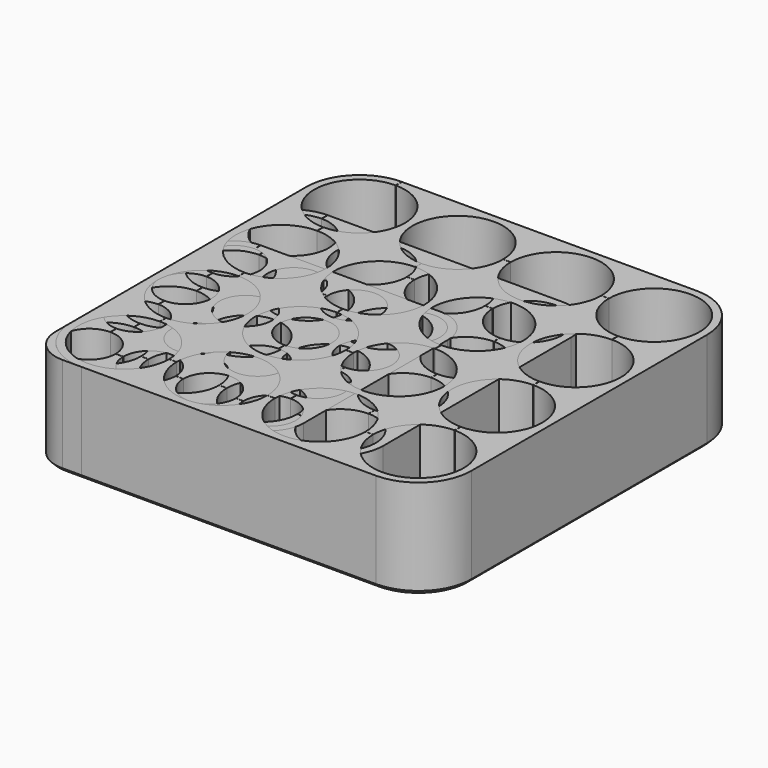
from build123d import *

# Parameters (mm, degrees)
PAD_DEPTH         = 20
PAD_DEPTH_BACK    = 0.8
CHAMFER_SIZE      = 0.8
SKETCH002_R       = 7.4
POCKET_DEPTH      = 20.001
SKETCH003_W       = 0.04
SKETCH003_H       = 50.8000270271
SKETCH003_W_2     = 34.4000540543
SKETCH003_H_2     = 0.04
SKETCH003_H_3     = 34.400054054
SKETCH003_W_3     = 18.0000540542
SKETCH003_H_4     = 18.000054054
SKETCH003_W_4     = 1.6000540542
SKETCH003_H_5     = 1.6000540541
POCKET001_DEPTH   = 20.001
PAD001_DEPTH      = 20
PAD001_DEPTH_BACK = 0.8
CHAMFER001_SIZE   = 0.8
SKETCH006_R       = 5.5
POCKET002_DEPTH   = 20.001
SKETCH007_W       = 0.04
SKETCH007_H       = 39.4000363638
SKETCH007_W_2     = 37.8000000001
SKETCH007_H_2     = 0.04
SKETCH007_H_3     = 37.7999999999
SKETCH007_W_3     = 25.2000000001
SKETCH007_H_4     = 25.1999999999
SKETCH007_W_4     = 12.6000000001
SKETCH007_H_5     = 12.6
POCKET003_DEPTH   = 20.001
PAD002_DEPTH      = 20
PAD002_DEPTH_BACK = 0.8
CHAMFER002_SIZE   = 0.8
SKETCH010_R       = 9.5
POCKET004_DEPTH   = 20.001
SKETCH011_W       = 0.04
SKETCH011_H       = 63.4000210527
SKETCH011_W_2     = 42.8000421054
SKETCH011_H_2     = 0.04
SKETCH011_H_3     = 42.8000421052
SKETCH011_W_3     = 22.2000421054
SKETCH011_H_4     = 22.2000421052
SKETCH011_W_4     = 1.6000421054
SKETCH011_H_5     = 1.6000421053
POCKET005_DEPTH   = 20.001


with BuildPart() as f_4x4_aa:
    # Sketch001 → Pad (new body, two sides)
    with BuildSketch(Plane.XY) as pad_sk:
        with BuildLine():
            Line((0, 58.2), (0, 9))
            ThreePointArc((0, 9), (2.6360389693, 2.6360389693), (9, 0))
            Line((9, 0), (58.2, 0))
            ThreePointArc((58.2, 0), (64.5639610307, 2.6360389693), (67.2, 9))
            Line((67.2, 9), (67.2, 58.2))
            ThreePointArc((67.2, 58.2), (64.5639610307, 64.5639610307), (58.2, 67.2))
            Line((58.2, 67.2), (9, 67.2))
            ThreePointArc((9, 67.2), (2.6360389693, 64.5639610307), (0, 58.2))
        make_face()
    extrude(amount=PAD_DEPTH)
    extrude(pad_sk.sketch, amount=-PAD_DEPTH_BACK)

    # Chamfer
    chamfer_edges = [f_4x4_aa.edges().sort_by_distance(p)[0] for p in [
        (2.636039, 2.636039, -0.8),
    ]]
    chamfer(chamfer_edges, length=CHAMFER_SIZE)

    # Sketch002 → Pocket (cut, through all)
    with BuildSketch(Plane.XY):
        with Locations((9, 9)):
            Circle(SKETCH002_R)
        with Locations((25.4, 9)):
            Circle(SKETCH002_R)
        with Locations((41.8000000001, 9)):
            Circle(SKETCH002_R)
        with Locations((58.2000000001, 9)):
            Circle(SKETCH002_R)
        with Locations((9, 25.4)):
            Circle(SKETCH002_R)
        with Locations((25.4, 25.4)):
            Circle(SKETCH002_R)
        with Locations((41.8000000001, 25.4)):
            Circle(SKETCH002_R)
        with Locations((58.2000000001, 25.4)):
            Circle(SKETCH002_R)
        with Locations((9, 41.7999999999)):
            Circle(SKETCH002_R)
        with Locations((25.4, 41.7999999999)):
            Circle(SKETCH002_R)
        with Locations((41.8000000001, 41.7999999999)):
            Circle(SKETCH002_R)
        with Locations((58.2000000001, 41.7999999999)):
            Circle(SKETCH002_R)
        with Locations((58.2000000001, 58.1999999999)):
            Circle(SKETCH002_R)
        with Locations((41.8000000001, 58.1999999999)):
            Circle(SKETCH002_R)
        with Locations((25.4, 58.1999999999)):
            Circle(SKETCH002_R)
        with Locations((9, 58.1999999999)):
            Circle(SKETCH002_R)
    extrude(amount=POCKET_DEPTH, mode=Mode.SUBTRACT)

    # Sketch003 → Pocket001 (cut, through all)
    with BuildSketch(Plane.XY):
        with Locations((9, 41.7999864865)):
            Rectangle(SKETCH003_W, SKETCH003_H)
        with Locations((33.6000000001, 9)):
            Rectangle(SKETCH003_W_2, SKETCH003_H_2)
        with Locations((58.2000000001, 33.5999999999)):
            Rectangle(SKETCH003_W, SKETCH003_H_3)
        with Locations((41.8000000001, 58.1999999999)):
            Rectangle(SKETCH003_W_3, SKETCH003_H_2)
        with Locations((25.4, 41.7999999999)):
            Rectangle(SKETCH003_W, SKETCH003_H_4)
        with Locations((33.6000000001, 25.4)):
            Rectangle(SKETCH003_W_4, SKETCH003_H_2)
        with Locations((41.8000000001, 33.6)):
            Rectangle(SKETCH003_W, SKETCH003_H_5)
    extrude(amount=POCKET001_DEPTH, mode=Mode.SUBTRACT)


with BuildPart() as f_4x4_aaa:
    # Sketch005 → Pad001 (new body, two sides)
    with BuildSketch(Plane.XY) as pad001_sk:
        with BuildLine():
            Line((0, 44.9), (0, 7.1))
            ThreePointArc((0, 7.1), (2.0795418536, 2.0795418536), (7.1, 0))
            Line((7.1, 0), (44.9, 0))
            ThreePointArc((44.9, 0), (49.9204581464, 2.0795418536), (52, 7.1))
            Line((52, 7.1), (52, 44.9))
            ThreePointArc((52, 44.9), (49.9204581464, 49.9204581464), (44.9, 52))
            Line((44.9, 52), (7.1, 52))
            ThreePointArc((7.1, 52), (2.0795418536, 49.9204581464), (0, 44.9))
        make_face()
    extrude(amount=PAD001_DEPTH)
    extrude(pad001_sk.sketch, amount=-PAD001_DEPTH_BACK)

    # Chamfer001
    chamfer001_edges = [f_4x4_aaa.edges().sort_by_distance(p)[0] for p in [
        (2.079542, 2.079542, -0.8),
    ]]
    chamfer(chamfer001_edges, length=CHAMFER001_SIZE)

    # Sketch006 → Pocket002 (cut, through all)
    with BuildSketch(Plane.XY):
        with Locations((7.1, 7.1)):
            Circle(SKETCH006_R)
        with Locations((19.7, 7.1)):
            Circle(SKETCH006_R)
        with Locations((32.3000000001, 7.1)):
            Circle(SKETCH006_R)
        with Locations((44.9000000001, 7.1)):
            Circle(SKETCH006_R)
        with Locations((7.1, 19.7)):
            Circle(SKETCH006_R)
        with Locations((19.7, 19.7)):
            Circle(SKETCH006_R)
        with Locations((32.3000000001, 19.7)):
            Circle(SKETCH006_R)
        with Locations((44.9000000001, 19.7)):
            Circle(SKETCH006_R)
        with Locations((7.1, 32.2999999999)):
            Circle(SKETCH006_R)
        with Locations((19.7, 32.2999999999)):
            Circle(SKETCH006_R)
        with Locations((32.3000000001, 32.2999999999)):
            Circle(SKETCH006_R)
        with Locations((44.9000000001, 32.2999999999)):
            Circle(SKETCH006_R)
        with Locations((44.9000000001, 44.8999999999)):
            Circle(SKETCH006_R)
        with Locations((32.3000000001, 44.8999999999)):
            Circle(SKETCH006_R)
        with Locations((19.7, 44.8999999999)):
            Circle(SKETCH006_R)
        with Locations((7.1, 44.8999999999)):
            Circle(SKETCH006_R)
    extrude(amount=POCKET002_DEPTH, mode=Mode.SUBTRACT)

    # Sketch007 → Pocket003 (cut, through all)
    with BuildSketch(Plane.XY):
        with Locations((7.1, 32.2999818181)):
            Rectangle(SKETCH007_W, SKETCH007_H)
        with Locations((31.4999636363, 7.1)):
            Rectangle(SKETCH007_W_2, SKETCH007_H_2)
        with Locations((44.9000000001, 31.4999636362)):
            Rectangle(SKETCH007_W, SKETCH007_H_3)
        with Locations((37.7999636363, 44.8999999999)):
            Rectangle(SKETCH007_W_3, SKETCH007_H_2)
        with Locations((19.7, 37.7999636362)):
            Rectangle(SKETCH007_W, SKETCH007_H_4)
        with Locations((31.4999636363, 19.7)):
            Rectangle(SKETCH007_W_4, SKETCH007_H_2)
        with Locations((32.3000000001, 31.4999636362)):
            Rectangle(SKETCH007_W, SKETCH007_H_5)
    extrude(amount=POCKET003_DEPTH, mode=Mode.SUBTRACT)


with BuildPart() as body002:
    # Sketch009 → Pad002 (new body, two sides)
    with BuildSketch(Plane.XY) as pad002_sk:
        with BuildLine():
            Line((0, 72.9), (0, 11.1))
            ThreePointArc((0, 11.1), (3.2511147288, 3.2511147288), (11.1, 0))
            Line((11.1, 0), (72.9, 0))
            ThreePointArc((72.9, 0), (80.7488852712, 3.2511147288), (84, 11.1))
            Line((84, 11.1), (84, 72.9))
            ThreePointArc((84, 72.9), (80.7488852712, 80.7488852712), (72.9, 84))
            Line((72.9, 84), (11.1, 84))
            ThreePointArc((11.1, 84), (3.2511147288, 80.7488852712), (0, 72.9))
        make_face()
    extrude(amount=PAD002_DEPTH)
    extrude(pad002_sk.sketch, amount=-PAD002_DEPTH_BACK)

    # Chamfer002
    chamfer002_edges = [body002.edges().sort_by_distance(p)[0] for p in [
        (3.251115, 3.251115, -0.8),
    ]]
    chamfer(chamfer002_edges, length=CHAMFER002_SIZE)

    # Sketch010 → Pocket004 (cut, through all)
    with BuildSketch(Plane.XY):
        with Locations((11.1, 11.1)):
            Circle(SKETCH010_R)
        with Locations((31.7, 11.1)):
            Circle(SKETCH010_R)
        with Locations((52.3000000001, 11.1)):
            Circle(SKETCH010_R)
        with Locations((72.9000000001, 11.1)):
            Circle(SKETCH010_R)
        with Locations((11.1, 31.7)):
            Circle(SKETCH010_R)
        with Locations((31.7, 31.7)):
            Circle(SKETCH010_R)
        with Locations((52.3000000001, 31.7)):
            Circle(SKETCH010_R)
        with Locations((72.9000000001, 31.7)):
            Circle(SKETCH010_R)
        with Locations((11.1, 52.2999999999)):
            Circle(SKETCH010_R)
        with Locations((31.7, 52.2999999999)):
            Circle(SKETCH010_R)
        with Locations((52.3000000001, 52.2999999999)):
            Circle(SKETCH010_R)
        with Locations((72.9000000001, 52.2999999999)):
            Circle(SKETCH010_R)
        with Locations((72.9000000001, 72.8999999999)):
            Circle(SKETCH010_R)
        with Locations((52.3000000001, 72.8999999999)):
            Circle(SKETCH010_R)
        with Locations((31.7, 72.8999999999)):
            Circle(SKETCH010_R)
        with Locations((11.1, 72.8999999999)):
            Circle(SKETCH010_R)
    extrude(amount=POCKET004_DEPTH, mode=Mode.SUBTRACT)

    # Sketch011 → Pocket005 (cut, through all)
    with BuildSketch(Plane.XY):
        with Locations((11.1, 52.2999894737)):
            Rectangle(SKETCH011_W, SKETCH011_H)
        with Locations((42.0000000001, 11.1)):
            Rectangle(SKETCH011_W_2, SKETCH011_H_2)
        with Locations((72.9000000001, 41.9999999999)):
            Rectangle(SKETCH011_W, SKETCH011_H_3)
        with Locations((52.3000000001, 72.8999999999)):
            Rectangle(SKETCH011_W_3, SKETCH011_H_2)
        with Locations((31.7, 52.2999999999)):
            Rectangle(SKETCH011_W, SKETCH011_H_4)
        with Locations((42.0000000001, 31.7)):
            Rectangle(SKETCH011_W_4, SKETCH011_H_2)
        with Locations((52.3000000001, 42)):
            Rectangle(SKETCH011_W, SKETCH011_H_5)
    extrude(amount=POCKET005_DEPTH, mode=Mode.SUBTRACT)


solid = Compound([f_4x4_aa.part, f_4x4_aaa.part, body002.part])
